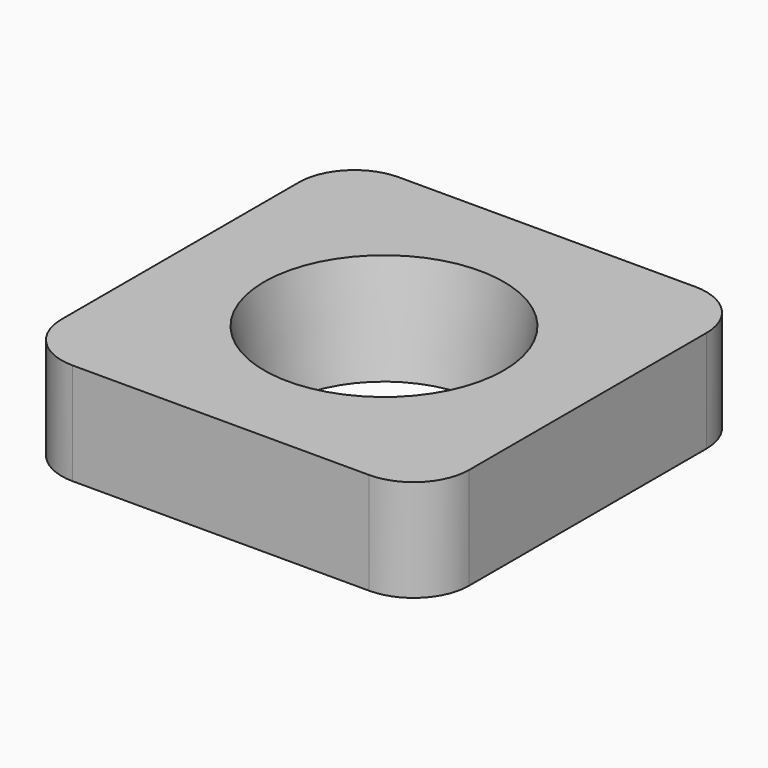
from build123d import *

# Parameters (mm, degrees)
F3_W     = 22
F3_H     = 22
F4_DEPTH = 5.5
F5_R     = 3
F6_R     = 5.5
F7_DEPTH = 5.5
F7_TAPER = -10


with BuildPart() as f4:
    # F3 (on Top) → F4 (new body)
    with BuildSketch(Plane.XY):
        Rectangle(F3_W, F3_H)
    extrude(amount=F4_DEPTH)

    # F5
    f5_edges = [f4.edges().sort_by_distance(p)[0] for p in [
        (11, -11, 2.75),
        (11, 11, 2.75),
        (-11, 11, 2.75),
        (-11, -11, 2.75),
    ]]
    fillet(f5_edges, radius=F5_R)

    # F6 (on face) → F7 (cut, through all)
    with BuildSketch(Plane(origin=(0, 0, 0), x_dir=(1, 0, 0), z_dir=(0, 0, -1))):
        Circle(F6_R)
    extrude(amount=-F7_DEPTH, taper=F7_TAPER, mode=Mode.SUBTRACT)


solid = f4.part
